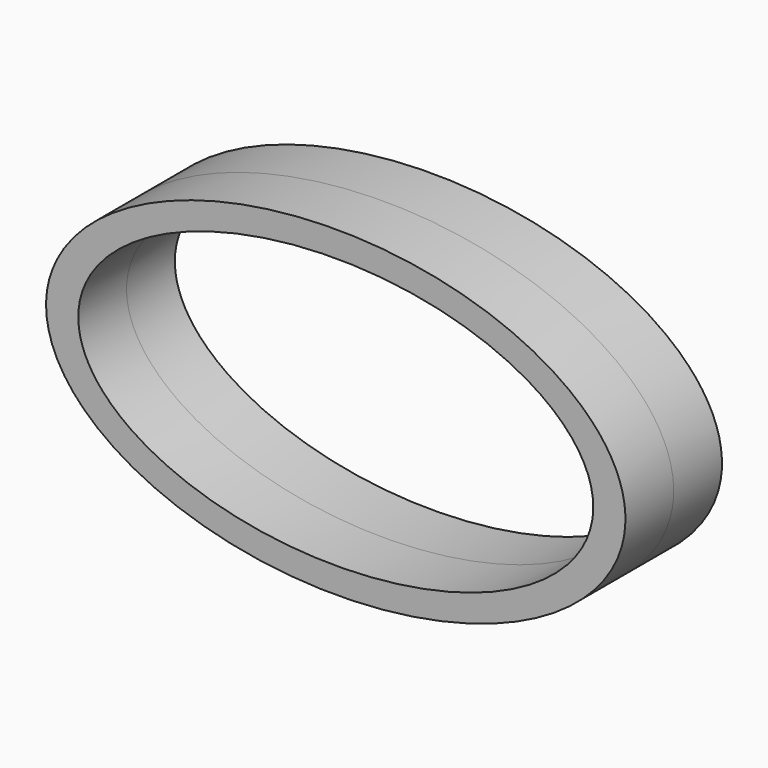
from build123d import *

# Parameters (mm, degrees)
F1_DEPTH = 2.38125


with BuildPart() as f1:
    # F0 (on Front) → F1 (new body, symmetric)
    with BuildSketch(Plane.XZ):
        with BuildLine():
            add(Edge.make_bspline(
                [(-11.43, 0), (-11.43, -10.998523), (5.715, -5.499261), (22.86, 0), (5.715, 5.499261), (-11.43, 10.998523), (-11.43, 0)],
                knots=[0, 0, 0, 2.094395, 2.094395, 4.18879, 4.18879, 6.283185, 6.283185, 6.283185], degree=2, weights=[1, 0.5, 1, 0.5, 1, 0.5, 1]))
        make_face()
        with BuildLine():
            add(Edge.make_bspline(
                [(10.16, 0), (10.16, 9.245977), (-5.08, 4.622988), (-20.32, 0), (-5.08, -4.622988), (10.16, -9.245977), (10.16, 0)],
                knots=[0, 0, 0, 2.094395, 2.094395, 4.18879, 4.18879, 6.283185, 6.283185, 6.283185], degree=2, weights=[1, 0.5, 1, 0.5, 1, 0.5, 1]))
        make_face(mode=Mode.SUBTRACT)
    extrude(amount=F1_DEPTH, both=True)


solid = f1.part
